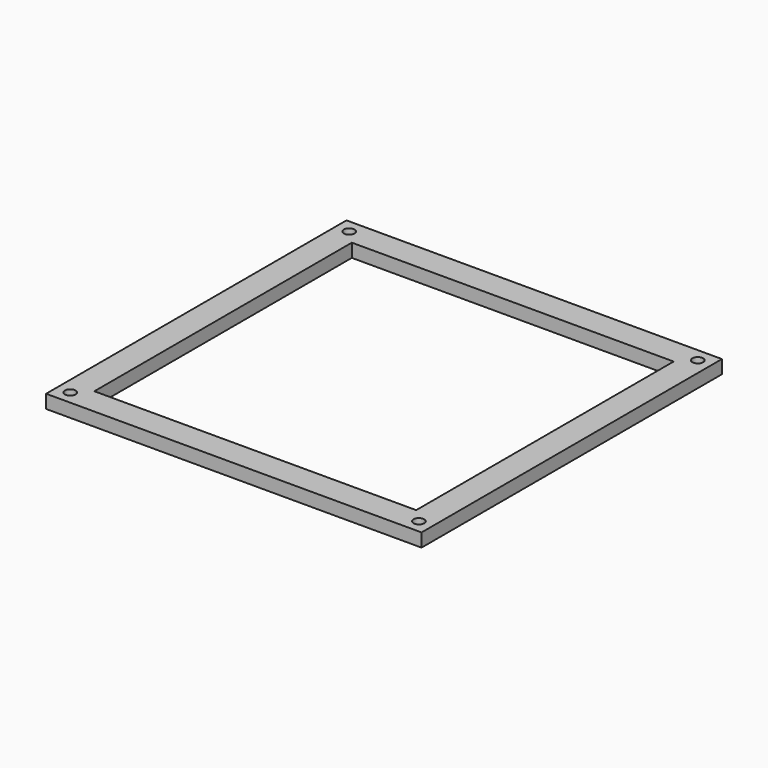
from build123d import *

# Parameters (mm, degrees)
F0_W     = 177.8
F0_H     = 177.8
F0_R     = 2.5527
F0_W_2   = 152.4
F0_H_2   = 152.4
F1_DEPTH = 6.35


with BuildPart() as f1:
    # F0 (on Top) → F1 (new body)
    with BuildSketch(Plane.XY):
        Rectangle(F0_W, F0_H)
        with Locations((-82.55, -82.55)):
            Circle(F0_R, mode=Mode.SUBTRACT)
        with Locations((82.55, -82.55)):
            Circle(F0_R, mode=Mode.SUBTRACT)
        with Locations((-82.55, 82.55)):
            Circle(F0_R, mode=Mode.SUBTRACT)
        Rectangle(F0_W_2, F0_H_2, mode=Mode.SUBTRACT)
        with Locations((82.55, 82.55)):
            Circle(F0_R, mode=Mode.SUBTRACT)
    extrude(amount=F1_DEPTH)


solid = f1.part
